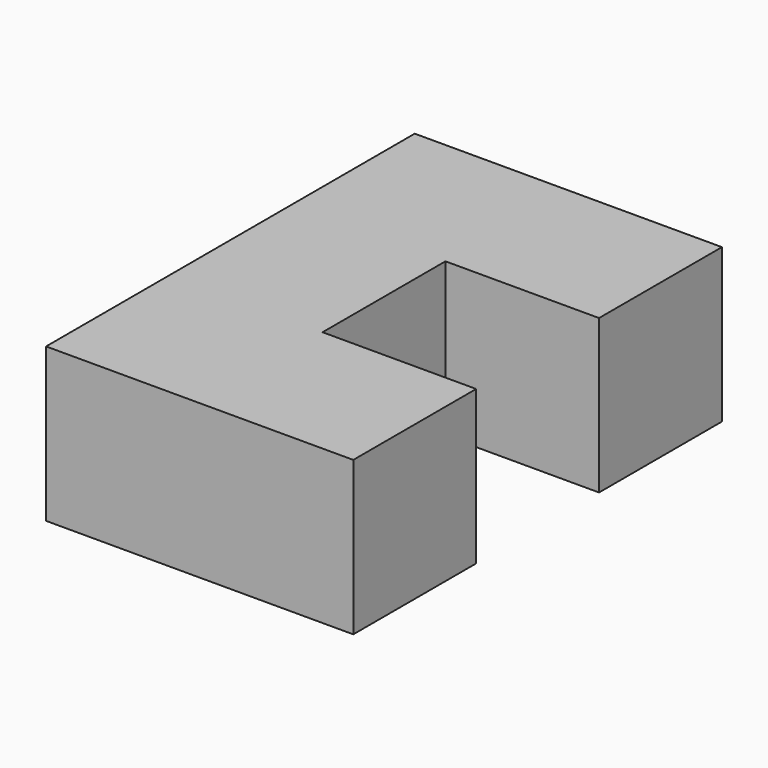
from build123d import *

# Parameters (mm, degrees)
F0_W     = 38.1
F0_H     = 57.15
F1_DEPTH = 19.05
F2_W     = 9.525
F2_H     = 19.05
F3_DEPTH = 19.05
F4_W     = 9.525
F4_H     = 19.05
F5_DEPTH = 19.05


with BuildPart() as f1:
    # F0 (on Top) → F1 (new body)
    with BuildSketch(Plane.XY):
        with Locations((19.05, 28.575)):
            Rectangle(F0_W, F0_H)
    extrude(amount=F1_DEPTH)

    # F2 (on face) → F3 (cut)
    with BuildSketch(Plane.YZ.offset(38.1)):
        with Locations((23.8125, 9.525)):
            Rectangle(F2_W, F2_H)
    extrude(amount=-F3_DEPTH, mode=Mode.SUBTRACT)

    # F4 (on face) → F5 (cut)
    with BuildSketch(Plane.YZ.offset(38.1)):
        with Locations((33.3375, 9.525)):
            Rectangle(F4_W, F4_H)
    extrude(amount=-F5_DEPTH, mode=Mode.SUBTRACT)


solid = f1.part
